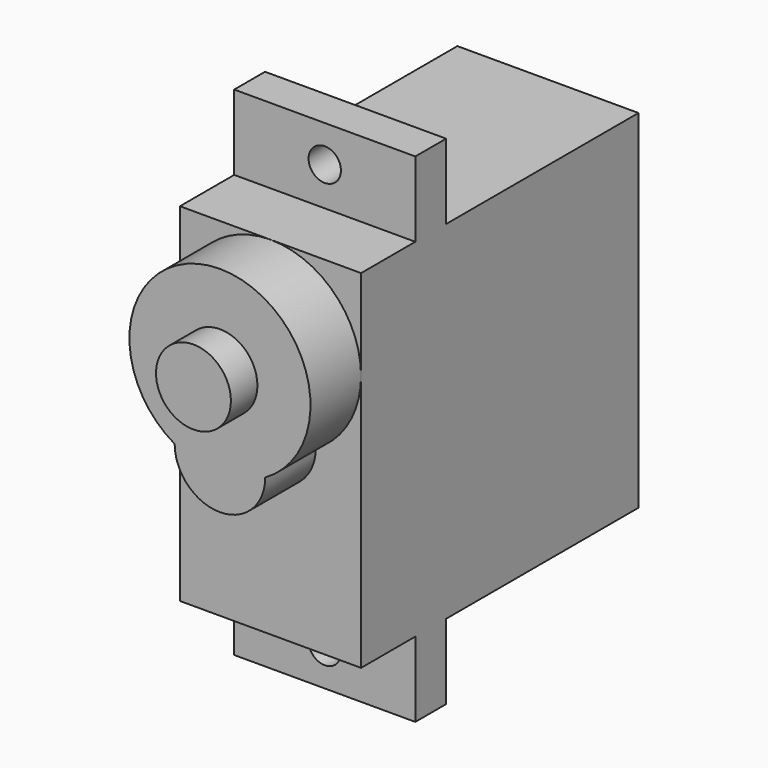
from build123d import *

# Parameters (mm, degrees)
SKETCH_W        = 11.75
SKETCH_H        = 32.3
PAD_DEPTH       = 22.5
SKETCH001_W     = 4.875
SKETCH001_H     = 15.6
SKETCH001_H_2   = 4.4
POCKET_DEPTH    = 11.751
PAD001_DEPTH    = 4.1
SKETCH003_R     = 2.43
PAD002_DEPTH    = 2.15
SKETCH004_R     = 1.05
POCKET001_DEPTH = 5


with BuildPart() as part:
    # Sketch → Pad (new body)
    with BuildSketch(Plane.XZ):
        with Locations((5.875, 16.15)):
            Rectangle(SKETCH_W, SKETCH_H)
    extrude(amount=PAD_DEPTH)

    # Sketch001 (on Face2 of Pad) → Pocket (cut, through all)
    with BuildSketch(Plane(origin=(11.75, 0, 0), x_dir=(0, 0, 1), z_dir=(1, 0, 0))):
        with Locations((29.8625, 7.8)):
            Rectangle(SKETCH001_W, SKETCH001_H)
        with Locations((29.8625, 20.3)):
            Rectangle(SKETCH001_W, SKETCH001_H_2)
        with Locations((2.4375, 20.3)):
            Rectangle(SKETCH001_W, SKETCH001_H_2)
        with Locations((2.4375, 7.8)):
            Rectangle(SKETCH001_W, SKETCH001_H)
    extrude(amount=-POCKET_DEPTH, mode=Mode.SUBTRACT)

    # Sketch002 (on Face13 of Pocket) → Pad001 (join)
    with BuildSketch(Plane.XZ.offset(22.5)):
        with BuildLine():
            ThreePointArc((8.8125, 16.462101), (5.875, 27.425), (2.9375, 16.462101))
            ThreePointArc((2.9375, 16.462101), (5.875, 13.524601), (8.8125, 16.462101))
        make_face()
    extrude(amount=PAD001_DEPTH)

    # Sketch003 (on Face19 of Pad001) → Pad002 (join)
    with BuildSketch(Plane.XZ.offset(26.6)):
        with Locations((5.875, 21.55)):
            Circle(SKETCH003_R)
    extrude(amount=PAD002_DEPTH)

    # Sketch004 (on Face4 of Pad002) → Pocket001 (cut)
    with BuildSketch(Plane.XZ.offset(18.1)):
        with Locations((5.875, 29.925)):
            Circle(SKETCH004_R)
        with Locations((5.875, 2.375)):
            Circle(SKETCH004_R)
    extrude(amount=-POCKET001_DEPTH, mode=Mode.SUBTRACT)


solid = part.part
